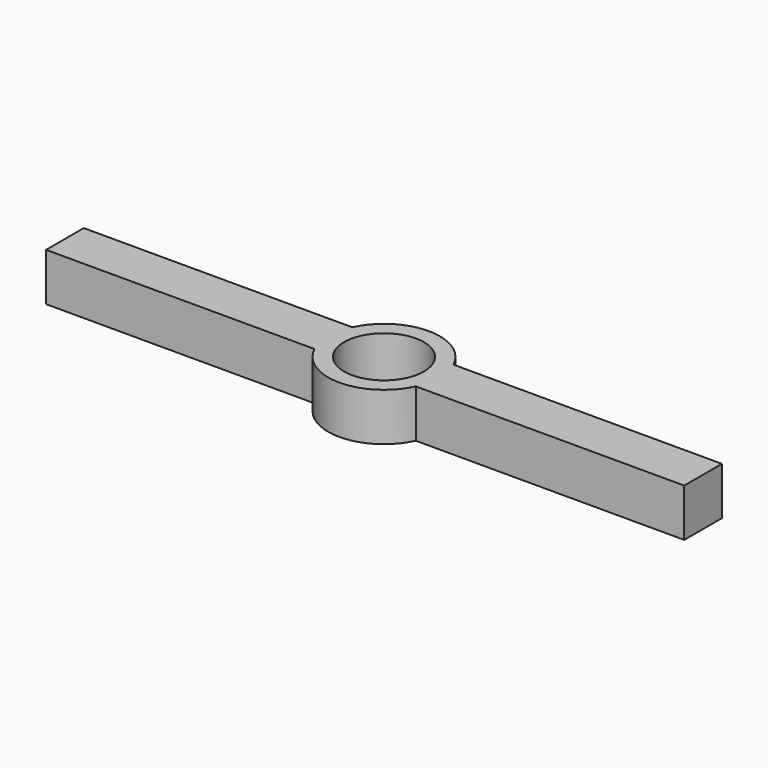
from build123d import *

# Parameters (mm, degrees)
F0_R     = 3.175
F1_DEPTH = 3.81


with BuildPart() as f1:
    # F0 (on Top) → F1 (new body)
    with BuildSketch(Plane.XY):
        with BuildLine():
            Line((-18.782108, 36.385548), (2.587475, 36.385548))
            Line((2.587475, 36.385548), (2.587475, 40.134556))
            Line((2.587475, 40.134556), (-18.782108, 40.134556))
            ThreePointArc((-18.782108, 40.134556), (-22.812525, 42.705052), (-26.842942, 40.134556))
            Line((-26.842942, 40.134556), (-48.212525, 40.134556))
            Line((-48.212525, 40.134556), (-48.212525, 36.385548))
            Line((-48.212525, 36.385548), (-26.842942, 36.385548))
            ThreePointArc((-26.842942, 36.385548), (-22.812525, 33.815052), (-18.782108, 36.385548))
        make_face()
        with Locations((-22.812525, 38.260052)):
            Circle(F0_R, mode=Mode.SUBTRACT)
    extrude(amount=F1_DEPTH)


solid = f1.part
